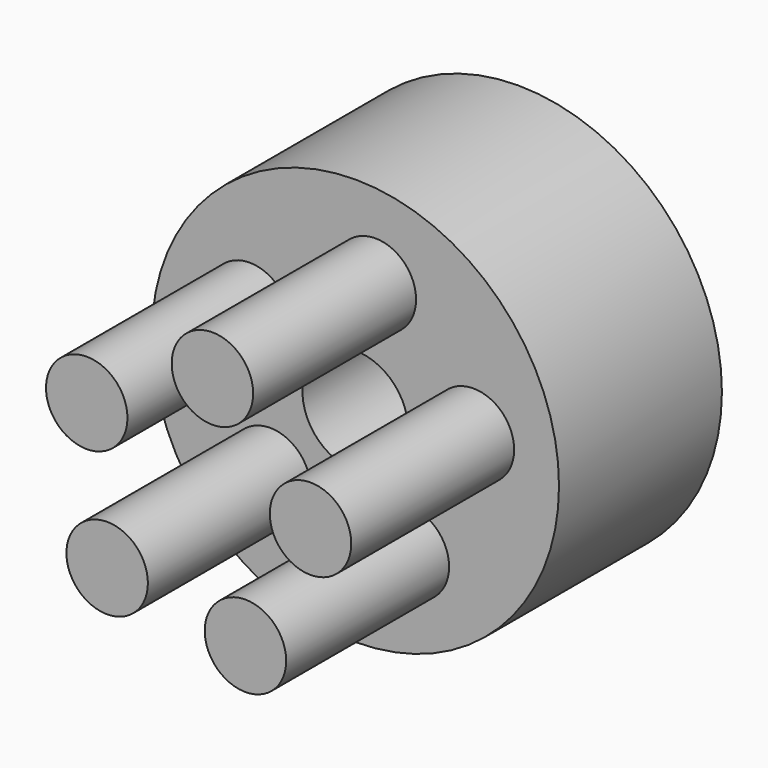
from build123d import *

# Parameters (mm, degrees)
F0_R     = 12.7
F1_DEPTH = 12.7
F2_R     = 3.302
F3_DEPTH = 12.7
F4_R     = 2.54
F5_DEPTH = 12.7


with BuildPart() as f1:
    # F0 (on Front) → F1 (new body)
    with BuildSketch(Plane.XZ):
        Circle(F0_R)
        Circle(F0_R)
    extrude(amount=F1_DEPTH)

    # F2 (on face) → F3 (cut)
    with BuildSketch(Plane.XZ.offset(12.7)):
        Circle(F2_R)
    extrude(amount=-F3_DEPTH, mode=Mode.SUBTRACT)

    # F4 (on face) → F5 (join)
    with BuildSketch(Plane.XZ.offset(12.7)):
        with Locations((1.24495, 7.337332)):
            Circle(F4_R)
        with Locations((-6.593507, 3.451378)):
            Circle(F4_R)
        with Locations((-5.319961, -5.204263)):
            Circle(F4_R)
        with Locations((3.30559, -6.66779)):
            Circle(F4_R)
        with Locations((7.362928, 1.083342)):
            Circle(F4_R)
    extrude(amount=F5_DEPTH)


solid = f1.part
